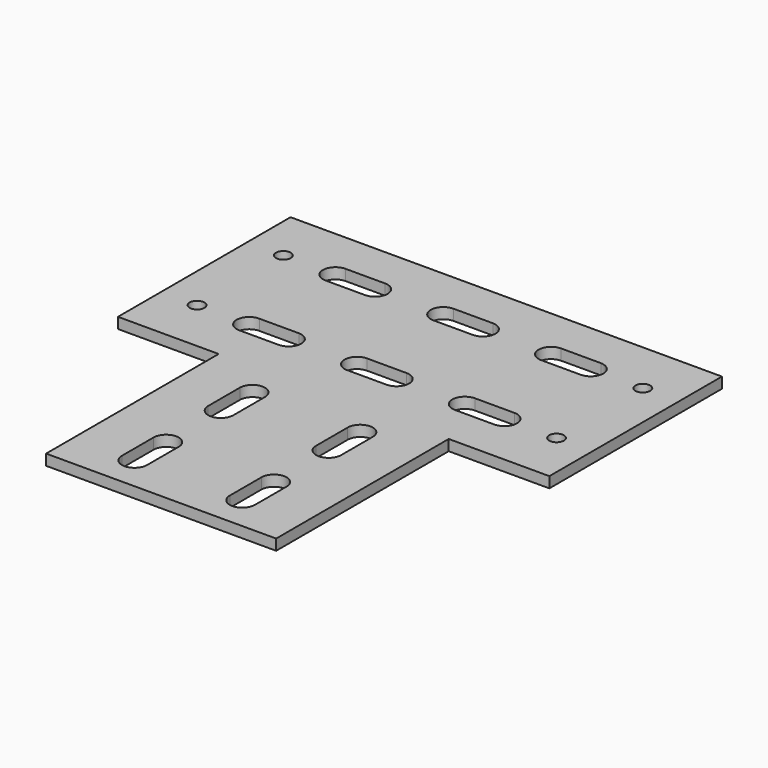
from build123d import *

# Parameters (mm, degrees)
F0_R     = 2.05
F1_DEPTH = 3


with BuildPart() as f1:
    # F0 (on Top) → F1 (new body)
    with BuildSketch(Plane.XY):
        Polygon((-32, -60), (32, -60), (32, 0), (60, 0), (60, 60), (-60, 60), (-60, 0), (-32, 0), align=None)
        with BuildLine():
            Line((-11.5, -39.5), (-11.5, -50.5))
            ThreePointArc((-11.5, -50.5), (-15, -54), (-18.5, -50.5))
            Line((-18.5, -50.5), (-18.5, -39.5))
            ThreePointArc((-18.5, -39.5), (-15, -36), (-11.5, -39.5))
        make_face(mode=Mode.SUBTRACT)
        with BuildLine():
            Line((-11.5, -9.5), (-11.5, -20.5))
            ThreePointArc((-11.5, -20.5), (-15, -24), (-18.5, -20.5))
            Line((-18.5, -20.5), (-18.5, -9.5))
            ThreePointArc((-18.5, -9.5), (-15, -6), (-11.5, -9.5))
        make_face(mode=Mode.SUBTRACT)
        with BuildLine():
            ThreePointArc((18.5, -50.5), (15, -54), (11.5, -50.5))
            Line((11.5, -50.5), (11.5, -39.5))
            ThreePointArc((11.5, -39.5), (15, -36), (18.5, -39.5))
            Line((18.5, -39.5), (18.5, -50.5))
        make_face(mode=Mode.SUBTRACT)
        with BuildLine():
            ThreePointArc((18.5, -20.5), (15, -24), (11.5, -20.5))
            Line((11.5, -20.5), (11.5, -9.5))
            ThreePointArc((11.5, -9.5), (15, -6), (18.5, -9.5))
            Line((18.5, -9.5), (18.5, -20.5))
        make_face(mode=Mode.SUBTRACT)
        with Locations((-50, 15)):
            Circle(F0_R, mode=Mode.SUBTRACT)
        with BuildLine():
            Line((-35.5, 18.5), (-24.5, 18.5))
            ThreePointArc((-24.5, 18.5), (-21, 15), (-24.5, 11.5))
            Line((-24.5, 11.5), (-35.5, 11.5))
            ThreePointArc((-35.5, 11.5), (-39, 15), (-35.5, 18.5))
        make_face(mode=Mode.SUBTRACT)
        with Locations((-50, 45)):
            Circle(F0_R, mode=Mode.SUBTRACT)
        with BuildLine():
            ThreePointArc((-24.5, 48.5), (-21, 45), (-24.5, 41.5))
            Line((-24.5, 41.5), (-35.5, 41.5))
            ThreePointArc((-35.5, 41.5), (-39, 45), (-35.5, 48.5))
            Line((-35.5, 48.5), (-24.5, 48.5))
        make_face(mode=Mode.SUBTRACT)
        with BuildLine():
            ThreePointArc((5.5, 18.5), (9, 15), (5.5, 11.5))
            Line((5.5, 11.5), (-5.5, 11.5))
            ThreePointArc((-5.5, 11.5), (-9, 15), (-5.5, 18.5))
            Line((-5.5, 18.5), (5.5, 18.5))
        make_face(mode=Mode.SUBTRACT)
        with BuildLine():
            ThreePointArc((35.5, 18.5), (39, 15), (35.5, 11.5))
            Line((35.5, 11.5), (24.5, 11.5))
            ThreePointArc((24.5, 11.5), (21, 15), (24.5, 18.5))
            Line((24.5, 18.5), (35.5, 18.5))
        make_face(mode=Mode.SUBTRACT)
        with Locations((50, 15)):
            Circle(F0_R, mode=Mode.SUBTRACT)
        with BuildLine():
            ThreePointArc((5.5, 48.5), (9, 45), (5.5, 41.5))
            Line((5.5, 41.5), (-5.5, 41.5))
            ThreePointArc((-5.5, 41.5), (-9, 45), (-5.5, 48.5))
            Line((-5.5, 48.5), (5.5, 48.5))
        make_face(mode=Mode.SUBTRACT)
        with BuildLine():
            ThreePointArc((35.5, 48.5), (39, 45), (35.5, 41.5))
            Line((35.5, 41.5), (24.5, 41.5))
            ThreePointArc((24.5, 41.5), (21, 45), (24.5, 48.5))
            Line((24.5, 48.5), (35.5, 48.5))
        make_face(mode=Mode.SUBTRACT)
        with Locations((50, 45)):
            Circle(F0_R, mode=Mode.SUBTRACT)
    extrude(amount=F1_DEPTH)


solid = f1.part
